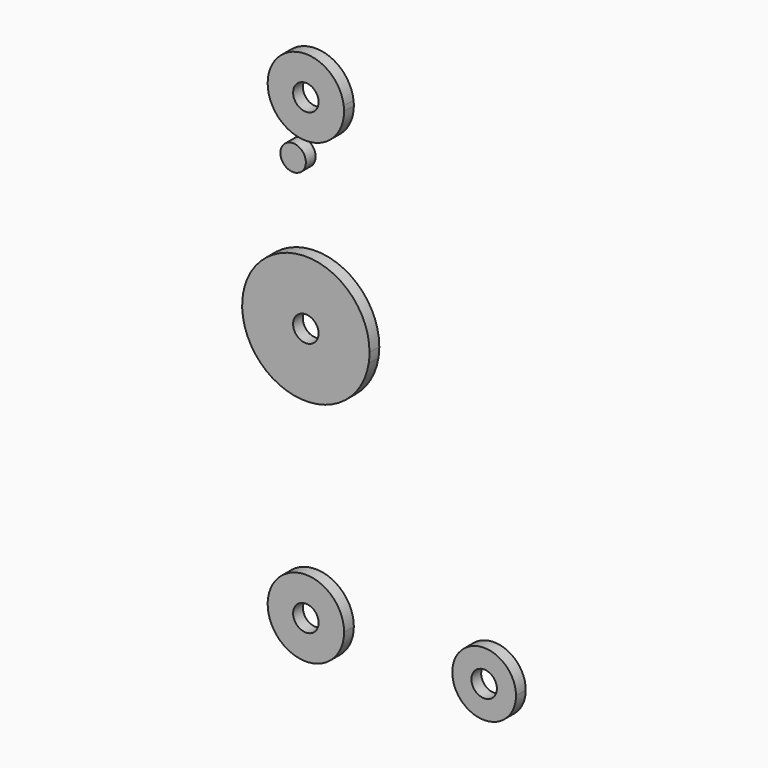
from build123d import *

# Parameters (mm, degrees)
F0_R     = 3.175
F1_DEPTH = 3.048


with BuildPart() as f1:
    # F0 (on Front) → F1 (new body)
    with BuildSketch(Plane.XZ):
        with BuildLine():
            ThreePointArc((15.670907, 60.993525), (15.820169, 62.242814), (15.870027, 63.5))
            ThreePointArc((15.870027, 63.5), (1.26755, 79.323916), (-15.675965, 66.036855))
            ThreePointArc((-15.675965, 66.036855), (-15.879965, 63.515386), (-15.680853, 60.993525))
            ThreePointArc((-15.680853, 60.993525), (-0.004973, 47.625), (15.670907, 60.993525))
        make_face()
        with Locations((-0.004973, 63.5)):
            Circle(F0_R, mode=Mode.SUBTRACT)
        with BuildLine():
            ThreePointArc((52.3875, 0), (38.738367, 5.51191), (44.732405, -7.932475))
            ThreePointArc((44.732405, -7.932475), (50.161633, -5.51191), (52.3875, 0))
        make_face()
        with Locations((44.45, 0)):
            Circle(F0_R, mode=Mode.SUBTRACT)
        with BuildLine():
            ThreePointArc((9.525, 0), (-0.474403, 9.513179), (-9.477744, -0.947629))
            ThreePointArc((-9.477744, -0.947629), (-6.391379, -7.062287), (0, -9.525))
            Line((0, -9.525), (0.677344, -9.500886))
            ThreePointArc((0.677344, -9.500886), (6.970557, -6.491299), (9.525, 0))
        make_face()
        Circle(F0_R, mode=Mode.SUBTRACT)
        with BuildLine():
            ThreePointArc((9.450409, 115.4897), (0, 123.825), (-9.450409, 115.4897))
            ThreePointArc((-9.450409, 115.4897), (-0.596018, 104.793666), (9.525, 114.3))
            ThreePointArc((9.525, 114.3), (9.506334, 114.896018), (9.450409, 115.4897))
        make_face()
        with Locations((0, 114.3)):
            Circle(F0_R, mode=Mode.SUBTRACT)
        with BuildLine():
            Line((0.677344, -9.500886), (0, -9.525))
            ThreePointArc((0, -9.525), (0.338886, -9.51897), (0.677344, -9.500886))
        make_face()
        with Locations((-3.175, 100.0252)):
            Circle(F0_R)
    extrude(amount=F1_DEPTH)


solid = f1.part
